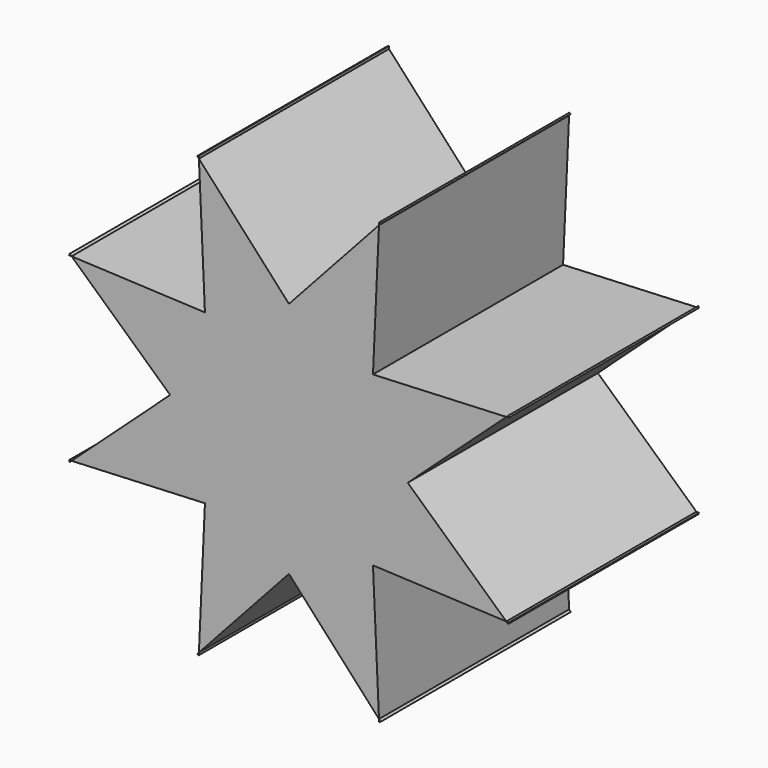
from build123d import *

# Parameters (mm, degrees)
F0_R     = 127
F0_R_2   = 63.5
F1_DEPTH = 127
F3_DEPTH = 127.001


with BuildPart() as f1:
    # F0 (on Front) → F1 (new body)
    with BuildSketch(Plane.XZ):
        Circle(F0_R)
        Circle(F0_R_2, mode=Mode.SUBTRACT)
        Circle(F0_R_2)
    extrude(amount=F1_DEPTH)

    # F2 (on Front) → F3 (cut, through all)
    with BuildSketch(Plane.XZ):
        with BuildLine():
            Line((-48.1185591743, 116.1684781605), (0, 63.5))
            Line((0, 63.5), (48.1185591743, 116.1684781604))
            Line((48.1185591743, 116.1684781604), (48.1789645741, 117.5065418288))
            ThreePointArc((48.1789645741, 117.5065418288), (0, 127), (-48.1789645741, 117.5065418288))
            Line((-48.1789645741, 117.5065418288), (-48.1185591743, 116.1684781605))
        make_face()
        with BuildLine():
            Line((48.1185591743, 116.1684781604), (44.9012806053, 44.9012806053))
            Line((44.9012806053, 44.9012806053), (116.1684781605, 48.1185591743))
            Line((116.1684781605, 48.1185591743), (117.1573451218, 49.022))
            ThreePointArc((117.1573451218, 49.022), (89.8025612107, 89.8025612107), (49.022, 117.1573451218))
            Line((49.022, 117.1573451218), (48.1185591743, 116.1684781604))
        make_face()
        with BuildLine():
            Line((116.1684781605, 48.1185591743), (63.5, 0))
            Line((63.5, 0), (116.1684781604, -48.1185591743))
            Line((116.1684781604, -48.1185591743), (117.5065418288, -48.1789645741))
            ThreePointArc((117.5065418288, -48.1789645741), (124.6040344697, -24.5526901555), (127, 0))
            ThreePointArc((127, 0), (124.6040344697, 24.5526901555), (117.5065418288, 48.1789645741))
            Line((117.5065418288, 48.1789645741), (116.1684781605, 48.1185591743))
        make_face()
        with BuildLine():
            Line((116.1684781604, -48.1185591743), (44.9012806053, -44.9012806053))
            Line((44.9012806053, -44.9012806053), (48.1185591743, -116.1684781605))
            Line((48.1185591743, -116.1684781605), (49.022, -117.1573451218))
            ThreePointArc((49.022, -117.1573451218), (89.8025612107, -89.8025612107), (117.1573451218, -49.022))
            Line((117.1573451218, -49.022), (116.1684781604, -48.1185591743))
        make_face()
        with BuildLine():
            Line((48.1185591743, -116.1684781605), (0, -63.5))
            Line((0, -63.5), (-48.1185591743, -116.1684781605))
            Line((-48.1185591743, -116.1684781604), (-48.1789645741, -117.5065418288))
            ThreePointArc((-48.1789645741, -117.5065418288), (0, -127), (48.1789645741, -117.5065418288))
            Line((48.1789645741, -117.5065418288), (48.1185591743, -116.1684781605))
        make_face()
        with BuildLine():
            Line((-48.1185591743, -116.1684781604), (-44.9012806053, -44.9012806053))
            Line((-44.9012806053, -44.9012806053), (-116.1684781605, -48.1185591743))
            Line((-116.1684781605, -48.1185591743), (-117.1573451218, -49.022))
            ThreePointArc((-117.1573451218, -49.022), (-89.8025612107, -89.8025612107), (-49.022, -117.1573451218))
            Line((-49.022, -117.1573451218), (-48.1185591743, -116.1684781605))
        make_face()
        with BuildLine():
            Line((-116.1684781605, -48.1185591743), (-63.5, 0))
            Line((-63.5, 0), (-116.1684781604, 48.1185591743))
            Line((-116.1684781604, 48.1185591743), (-117.5065418288, 48.1789645741))
            ThreePointArc((-117.5065418288, 48.1789645741), (-127, 0), (-117.5065418288, -48.1789645741))
            Line((-117.5065418288, -48.1789645741), (-116.1684781605, -48.1185591743))
        make_face()
        with BuildLine():
            Line((-116.1684781604, 48.1185591743), (-44.9012806053, 44.9012806053))
            Line((-44.9012806053, 44.9012806053), (-48.1185591743, 116.1684781605))
            Line((-48.1185591743, 116.1684781605), (-49.022, 117.1573451218))
            ThreePointArc((-49.022, 117.1573451218), (-89.8025612107, 89.8025612107), (-117.1573451218, 49.022))
            Line((-117.1573451218, 49.022), (-116.1684781604, 48.1185591743))
        make_face()
    extrude(amount=F3_DEPTH, mode=Mode.SUBTRACT)


solid = f1.part
